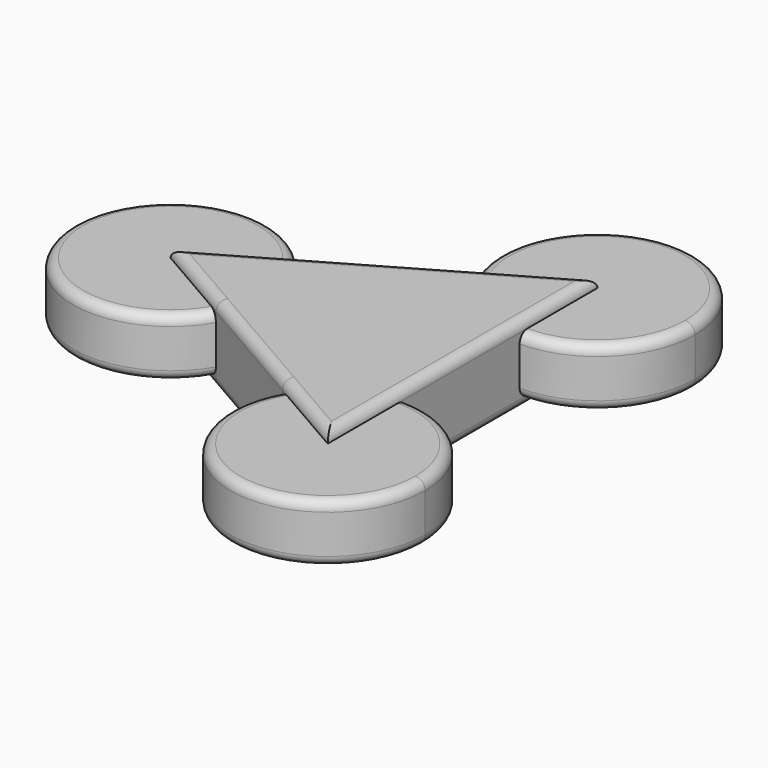
from build123d import *

# Parameters (mm, degrees)
F1_DEPTH      = 2
F1_DEPTH_BACK = 2
F2_DEPTH      = 1.5
F2_DEPTH_BACK = 1.5
F3_R          = 0.5
F3_2_R        = 0.5


with BuildPart() as f1:
    # F0 (on Top) → F1 (new body, two sides)
    with BuildSketch(Plane.XY) as f1_sk:
        with BuildLine():
            ThreePointArc((-5.669873, -2.5), (-5.170371, -1.294095), (-5, 0))
            ThreePointArc((-5, 0), (-5.170371, 1.294095), (-5.669873, 2.5))
            Line((-5.669873, 2.5), (-10, 0))
            Line((-10, 0), (-5.669873, -2.5))
        make_face()
        with BuildLine():
            ThreePointArc((-5, 0), (-4.330127, 2.5), (-2.5, 4.330127))
            Line((-2.5, 4.330127), (-5.669873, 2.5))
            ThreePointArc((-5.669873, 2.5), (-5.170371, 1.294095), (-5, 0))
        make_face()
        with BuildLine():
            ThreePointArc((5, -3.660254), (3.705905, -3.830625), (2.5, -4.330127))
            ThreePointArc((2.5, -4.330127), (1.464466, -5.12472), (0.669873, -6.160254))
            Line((0.669873, -6.160254), (5, -8.660254))
            Line((5, -8.660254), (5, -3.660254))
        make_face()
        with BuildLine():
            ThreePointArc((2.5, 4.330127), (4.330127, 2.5), (5, 0))
            Line((5, 0), (5, 3.660254))
            ThreePointArc((5, 3.660254), (3.705905, 3.830625), (2.5, 4.330127))
        make_face()
        with BuildLine():
            ThreePointArc((-2.5, 4.330127), (0, 5), (2.5, 4.330127))
            ThreePointArc((2.5, 4.330127), (1.464466, 5.12472), (0.669873, 6.160254))
            Line((0.669873, 6.160254), (-2.5, 4.330127))
        make_face()
        with BuildLine():
            ThreePointArc((0.669873, -6.160254), (1.464466, -5.12472), (2.5, -4.330127))
            ThreePointArc((2.5, -4.330127), (0, -5), (-2.5, -4.330127))
            Line((-2.5, -4.330127), (0.669873, -6.160254))
        make_face()
        with BuildLine():
            Line((5, -3.660254), (5, 0))
            ThreePointArc((5, 0), (4.330127, -2.5), (2.5, -4.330127))
            ThreePointArc((2.5, -4.330127), (3.705905, -3.830625), (5, -3.660254))
        make_face()
        with BuildLine():
            ThreePointArc((2.5, -4.330127), (4.330127, -2.5), (5, 0))
            ThreePointArc((5, 0), (4.330127, 2.5), (2.5, 4.330127))
            ThreePointArc((2.5, 4.330127), (0, 5), (-2.5, 4.330127))
            ThreePointArc((-2.5, 4.330127), (-4.330127, 2.5), (-5, 0))
            ThreePointArc((-5, 0), (-4.330127, -2.5), (-2.5, -4.330127))
            ThreePointArc((-2.5, -4.330127), (0, -5), (2.5, -4.330127))
        make_face()
        with BuildLine():
            ThreePointArc((0.669873, 6.160254), (1.464466, 5.12472), (2.5, 4.330127))
            ThreePointArc((2.5, 4.330127), (3.705905, 3.830625), (5, 3.660254))
            Line((5, 3.660254), (5, 8.660254))
            Line((5, 8.660254), (0.669873, 6.160254))
        make_face()
        with BuildLine():
            Line((-5.669873, -2.5), (-2.5, -4.330127))
            ThreePointArc((-2.5, -4.330127), (-4.330127, -2.5), (-5, 0))
            ThreePointArc((-5, 0), (-5.170371, -1.294095), (-5.669873, -2.5))
        make_face()
    extrude(amount=F1_DEPTH)
    extrude(f1_sk.sketch, amount=-F1_DEPTH_BACK)

    # F3
    f3_edges = [f1.edges().sort_by_distance(p)[0] for p in [
        (-2.5, 4.330127, 2),
        (-2.5, -4.330127, 2),
        (5, 0, 2),
        (5, 0, -2),
        (-2.5, -4.330127, -2),
        (-2.5, 4.330127, -2),
    ]]
    fillet(f3_edges, radius=F3_R)


with BuildPart() as f2:
    # F0 (on Top) → F2 (new body, two sides)
    with BuildSketch(Plane.XY) as f2_sk:
        with BuildLine():
            ThreePointArc((10, -8.660254), (8.535534, -5.12472), (5, -3.660254))
            Line((5, -3.660254), (5, -8.660254))
            Line((5, -8.660254), (0.669873, -6.160254))
            ThreePointArc((0.669873, -6.160254), (3.705905, -13.489883), (10, -8.660254))
        make_face()
        with BuildLine():
            Line((-10, 0), (-5.669873, 2.5))
            ThreePointArc((-5.669873, 2.5), (-15, 0), (-5.669873, -2.5))
            Line((-5.669873, -2.5), (-10, 0))
        make_face()
        with BuildLine():
            Line((5, 8.660254), (5, 3.660254))
            ThreePointArc((5, 3.660254), (8.535534, 5.12472), (10, 8.660254))
            ThreePointArc((10, 8.660254), (3.705905, 13.489883), (0.669873, 6.160254))
            Line((0.669873, 6.160254), (5, 8.660254))
        make_face()
    extrude(amount=F2_DEPTH)
    extrude(f2_sk.sketch, amount=-F2_DEPTH_BACK)

    # F3#2
    f3_2_edges = [f2.edges().sort_by_distance(p)[0] for p in [
        (7.5, 12.990381, 1.5),
        (7.5, 12.990381, -1.5),
        (3.705905, -13.489883, 1.5),
        (3.705905, -13.489883, -1.5),
        (-15, 0, -1.5),
        (-15, 0, 1.5),
    ]]
    fillet(f3_2_edges, radius=F3_2_R)


solid = Compound([f1.part, f2.part])
